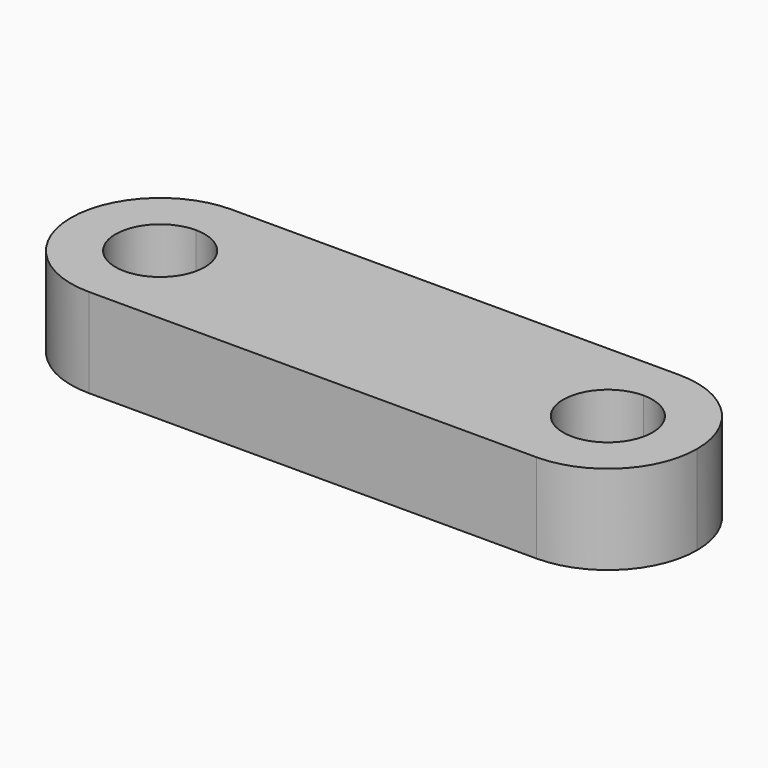
from build123d import *

# Parameters (mm, degrees)
F1_DEPTH = 5


with BuildPart() as f1:
    # F0 (on Top) → F1 (new body)
    with BuildSketch(Plane.XY):
        with BuildLine():
            Line((0, 2.5), (0, 5))
            ThreePointArc((0, 5), (-5, 0), (0, -5))
            Line((0, -5), (0, -2.5))
            ThreePointArc((0, -2.5), (-2.5, 0), (0, 2.5))
        make_face()
        with BuildLine():
            ThreePointArc((0, -5), (3.535534, -3.535534), (5, 0))
            ThreePointArc((5, 0), (3.535534, 3.535534), (0, 5))
            Line((0, 5), (0, 2.5))
            ThreePointArc((0, 2.5), (1.767767, 1.767767), (2.5, 0))
            ThreePointArc((2.5, 0), (1.767767, -1.767767), (0, -2.5))
            Line((0, -2.5), (0, -5))
        make_face()
        with BuildLine():
            ThreePointArc((0, 5), (3.535534, 3.535534), (5, 0))
            ThreePointArc((5, 0), (3.535534, -3.535534), (0, -5))
            Line((0, -5), (25.098907, -5))
            ThreePointArc((25.098907, -5), (20.098907, 0), (25.098907, 5))
            Line((25.098907, 5), (0, 5))
        make_face()
        with BuildLine():
            Line((25.098907, 2.5), (25.098907, 5))
            ThreePointArc((25.098907, 5), (20.098907, 0), (25.098907, -5))
            Line((25.098907, -5), (25.098907, -2.5))
            ThreePointArc((25.098907, -2.5), (22.598907, 0), (25.098907, 2.5))
        make_face()
        with BuildLine():
            ThreePointArc((30.098907, 0), (28.634441, 3.535534), (25.098907, 5))
            Line((25.098907, 5), (25.098907, 2.5))
            ThreePointArc((25.098907, 2.5), (26.866674, 1.767767), (27.598907, 0))
            ThreePointArc((27.598907, 0), (26.866674, -1.767767), (25.098907, -2.5))
            Line((25.098907, -2.5), (25.098907, -5))
            ThreePointArc((25.098907, -5), (28.634441, -3.535534), (30.098907, 0))
        make_face()
    extrude(amount=F1_DEPTH)


solid = f1.part
